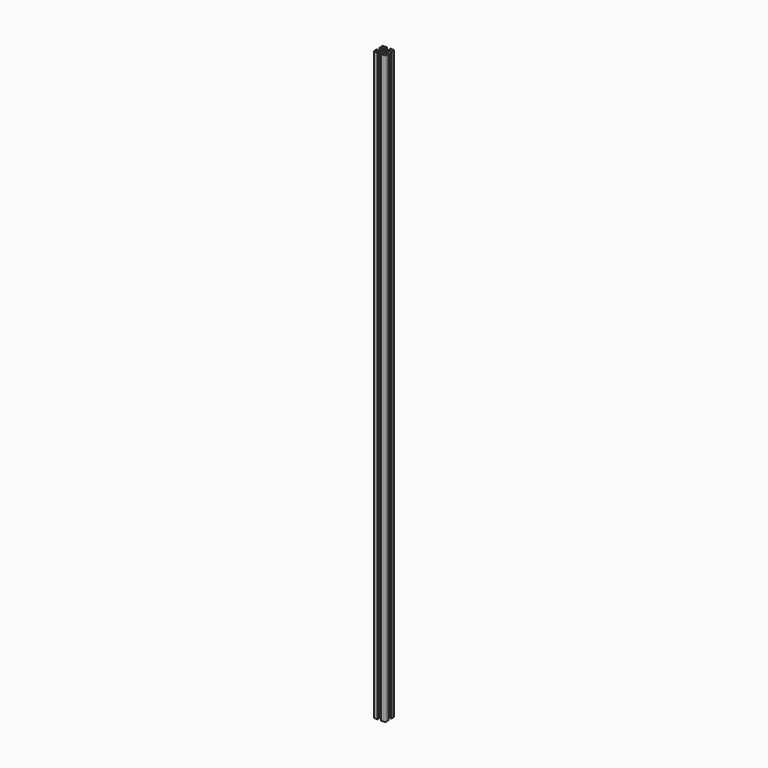
from build123d import *

# Parameters (mm, degrees)
F0_W     = 20
F0_H     = 20
F1_DEPTH = 1000
F2_R     = 2
F4_DEPTH = 1000
F6_DEPTH = 1000
F7_W     = 0.25
F7_H     = 0.25
F8_DEPTH = 1000
F9_R     = 0.25


with BuildPart() as f1:
    # F0 (on Top) → F1 (new body)
    with BuildSketch(Plane.XY):
        Rectangle(F0_W, F0_H)
    extrude(amount=F1_DEPTH)

    # F2
    f2_edges = [f1.edges().sort_by_distance(p)[0] for p in [
        (10, 10, 500),
        (-10, 10, 500),
        (-10, -10, 500),
        (10, -10, 500),
    ]]
    fillet(f2_edges, radius=F2_R)

    # F3 (on face) → F4 (cut, through all)
    with BuildSketch(Plane(origin=(0, 0, 0), x_dir=(1, 0, 0), z_dir=(0, 0, -1))):
        Polygon((3, 10), (-3, 10), (-3, 8.5), (-5.627585, 8.5), (-5.627585, 7.127585), (-3, 4.5), (0, 4.5), (3, 4.5), (5.627585, 7.127585), (5.627585, 8.5), (3, 8.5), align=None)
        Polygon((10, -3), (10, 3), (8.5, 3), (8.5, 5.627585), (7.127585, 5.627585), (4.5, 3), (4.5, 0), (4.5, -3), (7.127585, -5.627585), (8.5, -5.627585), (8.5, -3), align=None)
        Polygon((-3, -8.5), (-3, -10), (3, -10), (3, -8.5), (5.627585, -8.5), (5.627585, -7.127585), (3, -4.5), (0, -4.5), (-3, -4.5), (-5.627585, -7.127585), (-5.627585, -8.5), align=None)
        Polygon((-8.5, 3), (-10, 3), (-10, -3), (-8.5, -3), (-8.5, -5.627585), (-7.127585, -5.627585), (-4.5, -3), (-4.5, 0), (-4.5, 3), (-7.127585, 5.627585), (-8.5, 5.627585), align=None)
    extrude(amount=-F4_DEPTH, mode=Mode.SUBTRACT)

    # F5 (on face) → F6 (cut, through all)
    with BuildSketch(Plane.XY.offset(1000)):
        with BuildLine():
            Line((-3.3, -0.5), (-2.681715, -0.60902))
            ThreePointArc((-2.681715, -0.60902), (-2.38157, -1.375), (-1.868285, -2.017923))
            Line((-1.868285, -2.017923), (-2.083013, -2.607884))
            Line((-2.083013, -2.607884), (-1.65, -2.857884))
            Line((-1.65, -2.857884), (-1.216987, -3.107884))
            Line((-1.216987, -3.107884), (-0.81343, -2.626943))
            ThreePointArc((-0.81343, -2.626943), (0, -2.75), (0.81343, -2.626943))
            Line((0.81343, -2.626943), (1.216987, -3.107884))
            Line((1.216987, -3.107884), (1.65, -2.857884))
            Line((1.65, -2.857884), (2.083013, -2.607884))
            Line((2.083013, -2.607884), (1.868285, -2.017923))
            ThreePointArc((1.868285, -2.017923), (2.38157, -1.375), (2.681715, -0.60902))
            Line((2.681715, -0.60902), (3.3, -0.5))
            Line((3.3, -0.5), (3.3, 0))
            Line((3.3, 0), (3.3, 0.5))
            Line((3.3, 0.5), (2.681715, 0.60902))
            ThreePointArc((2.681715, 0.60902), (2.38157, 1.375), (1.868285, 2.017923))
            Line((1.868285, 2.017923), (2.083013, 2.607884))
            Line((2.083013, 2.607884), (1.65, 2.857884))
            Line((1.65, 2.857884), (1.216987, 3.107884))
            Line((1.216987, 3.107884), (0.81343, 2.626943))
            ThreePointArc((0.81343, 2.626943), (0, 2.75), (-0.81343, 2.626943))
            Line((-0.81343, 2.626943), (-1.216987, 3.107884))
            Line((-1.216987, 3.107884), (-1.65, 2.857884))
            Line((-1.65, 2.857884), (-2.083013, 2.607884))
            Line((-2.083013, 2.607884), (-1.868285, 2.017923))
            ThreePointArc((-1.868285, 2.017923), (-2.38157, 1.375), (-2.681715, 0.60902))
            Line((-2.681715, 0.60902), (-3.3, 0.5))
            Line((-3.3, 0.5), (-3.3, 0))
            Line((-3.3, 0), (-3.3, -0.5))
        make_face()
    extrude(amount=-F6_DEPTH, mode=Mode.SUBTRACT)

    # F7 (on face) → F8 (cut, through all)
    with BuildSketch(Plane(origin=(0, 0, 0), x_dir=(1, 0, 0), z_dir=(0, 0, -1))):
        with Locations((-9.875, 3.125)):
            Rectangle(F7_W, F7_H)
        with Locations((-3.125, 9.875)):
            Rectangle(F7_W, F7_H)
        with Locations((3.125, 9.875)):
            Rectangle(F7_W, F7_H)
        with Locations((9.875, 3.125)):
            Rectangle(F7_W, F7_H)
        with Locations((-9.875, -3.125)):
            Rectangle(F7_W, F7_H)
        with Locations((9.875, -3.125)):
            Rectangle(F7_W, F7_H)
        with Locations((-3.125, -9.875)):
            Rectangle(F7_W, F7_H)
        with Locations((3.125, -9.875)):
            Rectangle(F7_W, F7_H)
    extrude(amount=-F8_DEPTH, mode=Mode.SUBTRACT)

    # F9
    f9_edges = [f1.edges().sort_by_distance(p)[0] for p in [
        (-8.5, 3, 500),
        (-8.5, -3, 500),
        (-3, -8.5, 500),
        (3, -8.5, 500),
        (8.5, -3, 500),
        (-3, 8.5, 500),
        (3, 8.5, 500),
        (8.5, 3, 500),
    ]]
    fillet(f9_edges, radius=F9_R)


solid = f1.part
